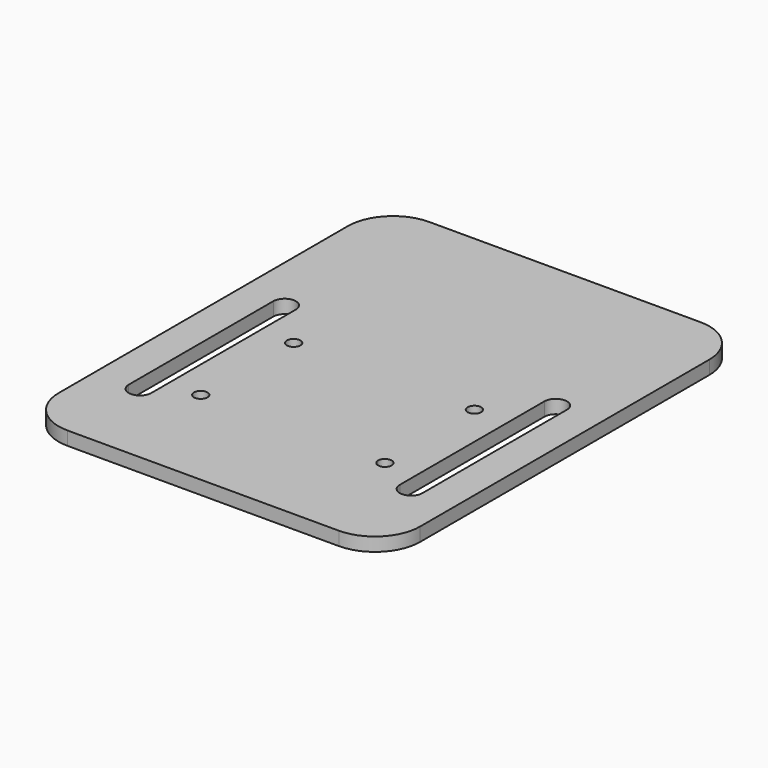
from build123d import *

# Parameters (mm, degrees)
F0_W     = 40
F0_H     = 100
F1_DEPTH = 3
F4_D     = 3
F6_DEPTH = 35.188589
F7_DEPTH = 100.799933
F8_R     = 10


with BuildPart() as f1:
    # F0 (on Top) → F1 (new body)
    with BuildSketch(Plane.XY):
        with Locations((20, 50)):
            Rectangle(F0_W, F0_H)
    extrude(amount=F1_DEPTH)

    # F4 (through all)
    with Locations(Plane.XY.offset(3)):
        with Locations((20, 50), (20.387277, 24.778537)):
            Hole(F4_D / 2)

    # F5 (on Top) → F6 (cut)
    with BuildSketch(Plane.XY):
        with BuildLine():
            ThreePointArc((27.5, 20), (30, 17.5), (32.5, 20))
            Line((32.5, 20), (32.5, 60))
            ThreePointArc((32.5, 60), (30, 62.5), (27.5, 60))
            Line((27.5, 60), (27.5, 20))
        make_face()
    extrude(amount=-F6_DEPTH, mode=Mode.SUBTRACT)

    # F5 (on Top) → F7 (cut)
    with BuildSketch(Plane.XY):
        with BuildLine():
            ThreePointArc((27.5, 20), (30, 17.5), (32.5, 20))
            Line((32.5, 20), (32.5, 60))
            ThreePointArc((32.5, 60), (30, 62.5), (27.5, 60))
            Line((27.5, 60), (27.5, 20))
        make_face()
    extrude(amount=F7_DEPTH, mode=Mode.SUBTRACT)

    # F8
    f8_edges = [f1.edges().sort_by_distance(p)[0] for p in [
        (40, 100, 1.5),
        (40, 0, 1.5),
    ]]
    fillet(f8_edges, radius=F8_R)

    # F9: F1 across plane


with BuildPart() as f1_1:
    add(f1.part)
    add(f1.part.mirror(Plane.YZ))


solid = f1_1.part
